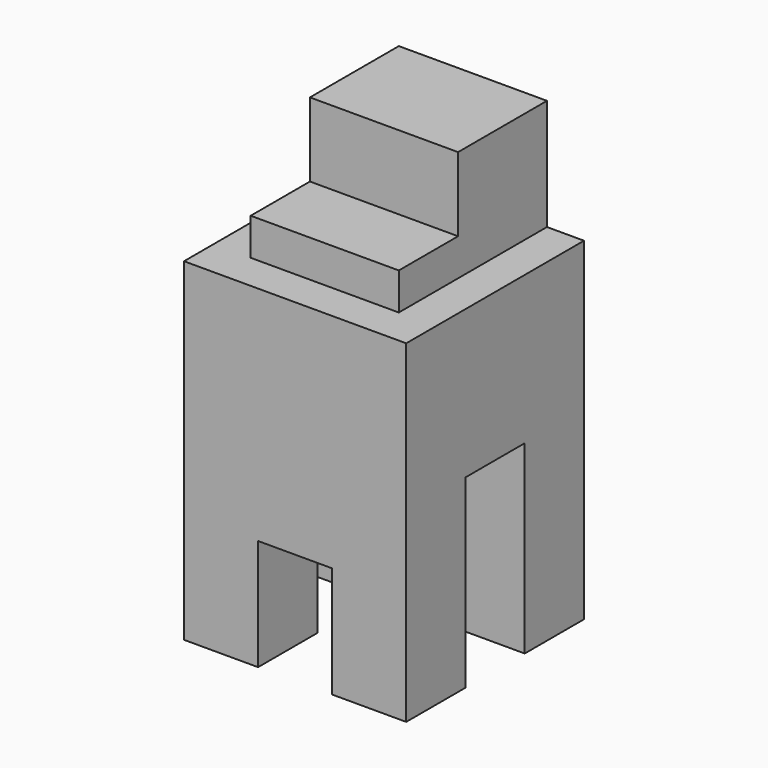
from build123d import *

# Parameters (mm, degrees)
F0_W          = 30
F0_H          = 45
F1_DEPTH      = 15
F2_W          = 10
F2_H          = 15
F3_DEPTH      = 30.001
F4_W          = 10
F4_H          = 25
F5_DEPTH      = 15.001
F5_DEPTH_BACK = 15.001
F7_DEPTH      = 10


with BuildPart() as f1:
    # F0 (on Front) → F1 (new body, symmetric)
    with BuildSketch(Plane.XZ):
        with Locations((0, 22.5)):
            Rectangle(F0_W, F0_H)
    extrude(amount=F1_DEPTH, both=True)

    # F2 (on face) → F3 (cut, through all)
    with BuildSketch(Plane.XZ.offset(15)):
        with Locations((0, 7.5)):
            Rectangle(F2_W, F2_H)
    extrude(amount=-F3_DEPTH, mode=Mode.SUBTRACT)

    # F4 (on Right) → F5 (cut, two sides)
    with BuildSketch(Plane.YZ) as f5_sk:
        with Locations((0, 12.5)):
            Rectangle(F4_W, F4_H)
    extrude(amount=-F5_DEPTH, mode=Mode.SUBTRACT)
    extrude(f5_sk.sketch, amount=F5_DEPTH_BACK, mode=Mode.SUBTRACT)


with BuildPart() as f7:
    # F6 (on Right) → F7 (new body, symmetric)
    with BuildSketch(Plane.YZ):
        Polygon((15, 45), (15, 60), (0, 60), (0, 50), (-10, 50), (-10, 45), align=None)
    extrude(amount=F7_DEPTH, both=True)


solid = Compound([f1.part, f7.part])
